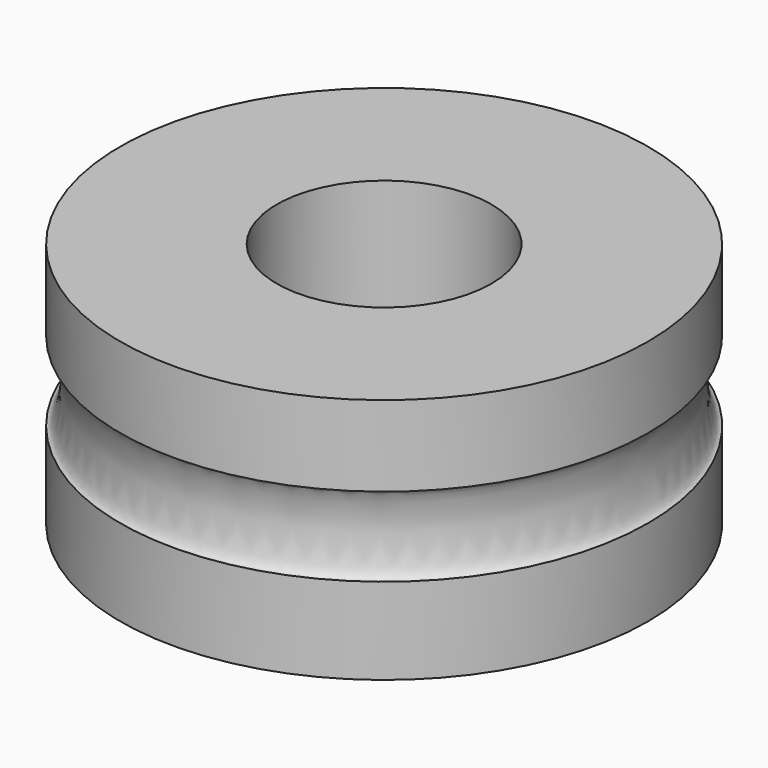
from build123d import *

# Parameters (mm, degrees)
F0_R     = 7.5
F0_R_2   = 3.05
F1_DEPTH = 7


with BuildPart() as f1:
    # F0 (on Top) → F1 (new body)
    with BuildSketch(Plane.XY):
        Circle(F0_R)
        Circle(F0_R_2, mode=Mode.SUBTRACT)
    extrude(amount=F1_DEPTH)

    # F2 (on Front) → F3 (revolve, cut)
    with BuildSketch(Plane.XZ):
        with BuildLine():
            add(Edge.make_bspline(
                [(7.499251, 2.456442), (8.072469, 2.456442), (7.78586, 4.146667), (7.499251, 5.836891), (7.212642, 4.146667), (6.926034, 2.456442), (7.499251, 2.456442)],
                knots=[0, 0, 0, 2.094395, 2.094395, 4.18879, 4.18879, 6.283185, 6.283185, 6.283185], degree=2, weights=[1, 0.5, 1, 0.5, 1, 0.5, 1]))
        make_face()
    revolve(axis=Axis((0, 0, 7), (0, 0, 1)), mode=Mode.SUBTRACT)


solid = f1.part
